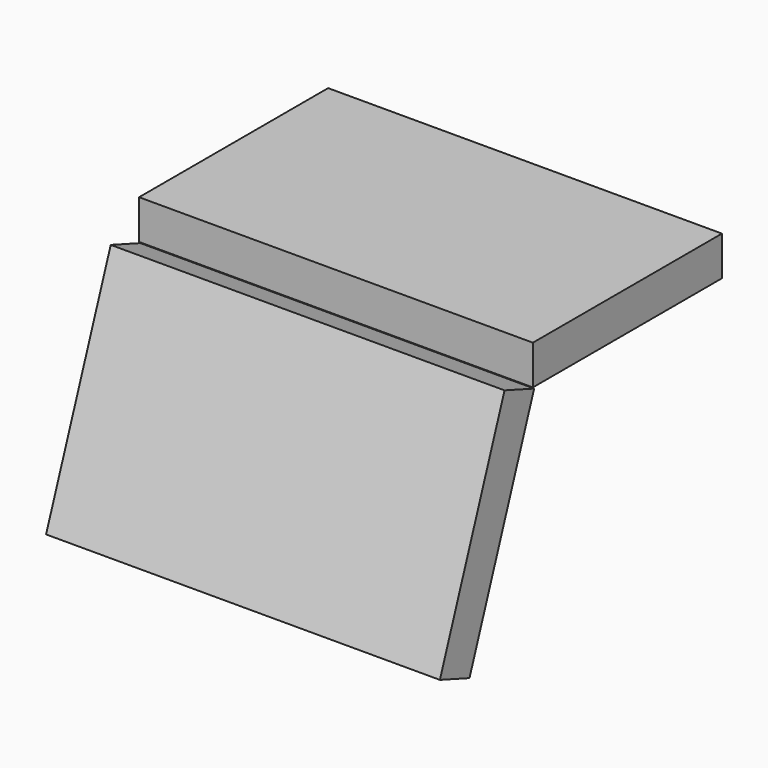
from build123d import *

# Parameters (mm, degrees)
BOX001_W               = 100
BOX001_H               = 60
BOX001_DEPTH           = 10
BOX001_PLACEMENT_ANGLE = 110.000038
BOX_W                  = 100
BOX_H                  = 60
BOX_DEPTH              = 10


with BuildPart() as box001:
    # Box001 → Box001 (new body)
    with BuildSketch(Plane.XY):
        with Locations((50, 30)):
            Rectangle(BOX001_W, BOX001_H)
    extrude(amount=BOX001_DEPTH)


with BuildPart() as box001_1:
    # Box001 placement: moved
    add(box001.part.moved(Location((0, -9, 3))).rotate(Axis((0, -9, 3), (-1, 0, 0)), BOX001_PLACEMENT_ANGLE))


with BuildPart() as laptop:
    # Box → Box (new body)
    with BuildSketch(Plane.XY):
        with Locations((50, 30)):
            Rectangle(BOX_W, BOX_H)
    extrude(amount=BOX_DEPTH)

    # Fusion: union Box001
    add(box001_1.part)


solid = laptop.part
